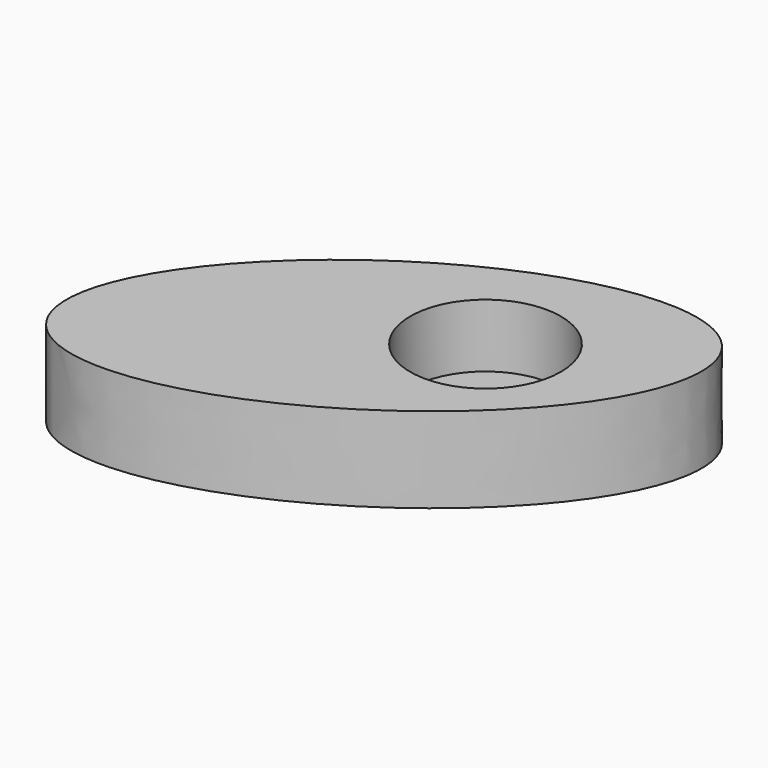
from build123d import *

# Parameters (mm, degrees)
F1_DEPTH = 6.858
F2_R     = 6.045219
F3_DEPTH = 5.08


with BuildPart() as f1:
    # F0 (on Top) → F1 (new body)
    with BuildSketch(Plane.XY):
        with BuildLine():
            add(Edge.make_bspline(
                [(-17.733088, -11.717704), (-8.045394, -26.378659), (13.710391, -1.471625), (35.466176, 23.435408), (4.022697, 13.189329), (-27.420782, 2.94325), (-17.733088, -11.717704)],
                knots=[0, 0, 0, 2.094395, 2.094395, 4.18879, 4.18879, 6.283185, 6.283185, 6.283185], degree=2, weights=[1, 0.5, 1, 0.5, 1, 0.5, 1]))
        make_face()
    extrude(amount=F1_DEPTH)

    # F2 (on face) → F3 (cut)
    with BuildSketch(Plane.XY.offset(6.858)):
        with Locations((5.699921, 3.059869)):
            Circle(F2_R)
    extrude(amount=-F3_DEPTH, mode=Mode.SUBTRACT)


solid = f1.part
